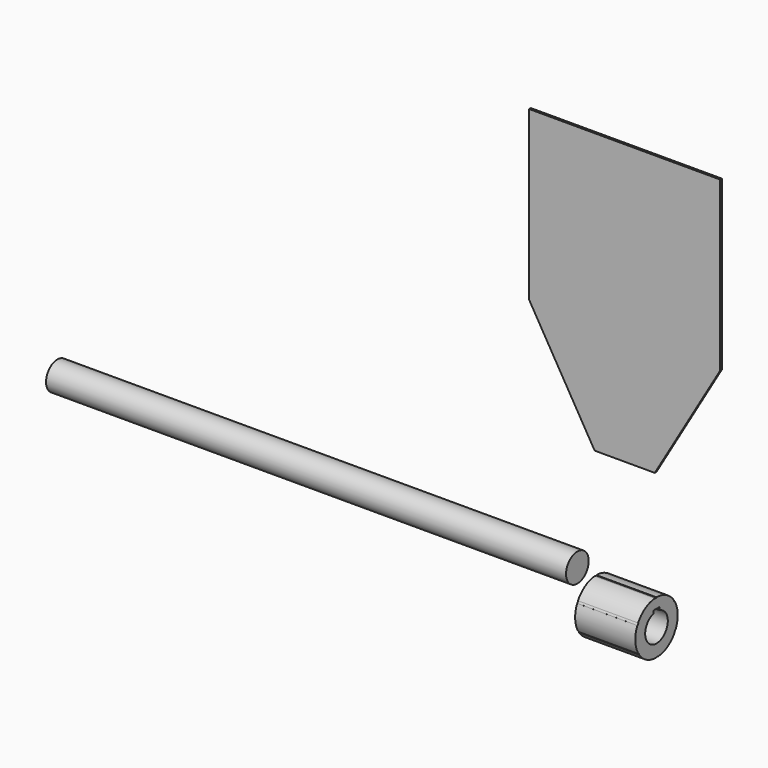
from build123d import *

# Parameters (mm, degrees)
F1_DEPTH = 6
F2_R     = 40
F3_DEPTH = 170
F5_DEPTH = 170
F6_R     = 40
F7_DEPTH = 1470


with BuildPart() as f1:
    # F0 (on Front) → F1 (new body)
    with BuildSketch(Plane.XZ):
        Polygon((-355, 702.038036), (-170, 387.038036), (0, 387.038036), (185, 702.038036), (185, 1177.038036), (-355, 1177.038036), align=None)
    extrude(amount=F1_DEPTH)


with BuildPart() as f3:
    # F2 (on Right) → F3 (new body)
    with BuildSketch(Plane.YZ):
        with BuildLine():
            ThreePointArc((67.743726, -32.183655), (73.163445, -16.495766), (75, 0))
            ThreePointArc((75, 0), (72.444437, 19.411428), (64.951905, 37.5))
            Line((64.951905, 37.5), (64.08588, 37))
            Line((64.08588, 37), (61.08588, 42.196152))
            Line((61.08588, 42.196152), (61.743726, 42.57596))
            ThreePointArc((61.743726, 42.57596), (34.869779, 66.401043), (0, 75))
            Line((0, 75), (0, 74))
            Line((0, 74), (-6, 74))
            Line((-6, 74), (-6, 74.759615))
            ThreePointArc((-6, 74.759615), (-40.0701, 63.398636), (-64.951905, 37.5))
            Line((-64.951905, 37.5), (-64.08588, 37))
            Line((-64.08588, 37), (-67.08588, 31.803848))
            Line((-67.08588, 31.803848), (-67.743726, 32.183655))
            ThreePointArc((-67.743726, 32.183655), (-74.93988, -3.002407), (-64.951905, -37.5))
            Line((-64.951905, -37.5), (-64.08588, -37))
            Line((-64.08588, -37), (-61.08588, -42.196152))
            Line((-61.08588, -42.196152), (-61.743726, -42.57596))
            ThreePointArc((-61.743726, -42.57596), (-34.869779, -66.401043), (0, -75))
            Line((0, -75), (0, -74))
            Line((0, -74), (6, -74))
            Line((6, -74), (6, -74.759615))
            ThreePointArc((6, -74.759615), (40.0701, -63.398636), (64.951905, -37.5))
            Line((64.951905, -37.5), (64.08588, -37))
            Line((64.08588, -37), (67.08588, -31.803848))
            Line((67.08588, -31.803848), (67.743726, -32.183655))
        make_face()
        Circle(F2_R, mode=Mode.SUBTRACT)
    extrude(amount=-F3_DEPTH)

    # F4 (on face) → F5 (cut)
    with BuildSketch(Plane(origin=(-170, 0, 0), x_dir=(0, -1, 0), z_dir=(-1, 0, 0))):
        with BuildLine():
            Line((-11, 46.457769), (-11, 38.457769))
            ThreePointArc((-11, 38.457769), (0, 40), (11, 38.457769))
            Line((11, 38.457769), (11, 46.457769))
            Line((11, 46.457769), (-11, 46.457769))
        make_face()
    extrude(amount=-F5_DEPTH, mode=Mode.SUBTRACT)


with BuildPart() as f7:
    # F6 (on Right) → F7 (new body)
    with BuildSketch(Plane.YZ):
        with Locations((-279.575586, 262.671828)):
            Circle(F6_R)
        with Locations((-279.575586, 262.671828)):
            Circle(F6_R)
    extrude(amount=-F7_DEPTH)


solid = Compound([f1.part, f3.part, f7.part])
